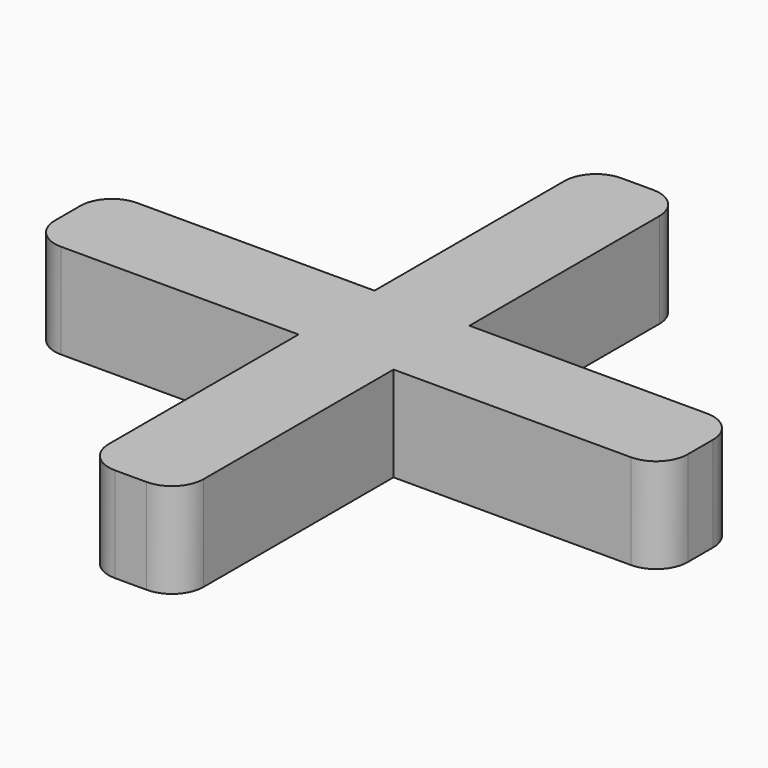
from build123d import *

# Parameters (mm, degrees)
F0_W     = 3
F0_H     = 8.5
F0_W_2   = 8.5
F0_H_2   = 3
F1_DEPTH = 3
F2_R     = 1


with BuildPart() as f1:
    # F0 (on Top) → F1 (new body)
    with BuildSketch(Plane.XY):
        with Locations((0, 5.75)):
            Rectangle(F0_W, F0_H)
        with Locations((-5.75, 0)):
            Rectangle(F0_W_2, F0_H_2)
        Rectangle(F0_W, F0_H_2)
        with Locations((5.75, 0)):
            Rectangle(F0_W_2, F0_H_2)
        with Locations((0, -5.75)):
            Rectangle(F0_W, F0_H)
    extrude(amount=F1_DEPTH)

    # F2
    f2_edges = [f1.edges().sort_by_distance(p)[0] for p in [
        (-10, 1.5, 1.5),
        (-10, -1.5, 1.5),
        (-1.5, -10, 1.5),
        (-1.5, 10, 1.5),
        (1.5, 10, 1.5),
        (10, 1.5, 1.5),
        (1.5, -10, 1.5),
        (10, -1.5, 1.5),
    ]]
    fillet(f2_edges, radius=F2_R)


solid = f1.part
